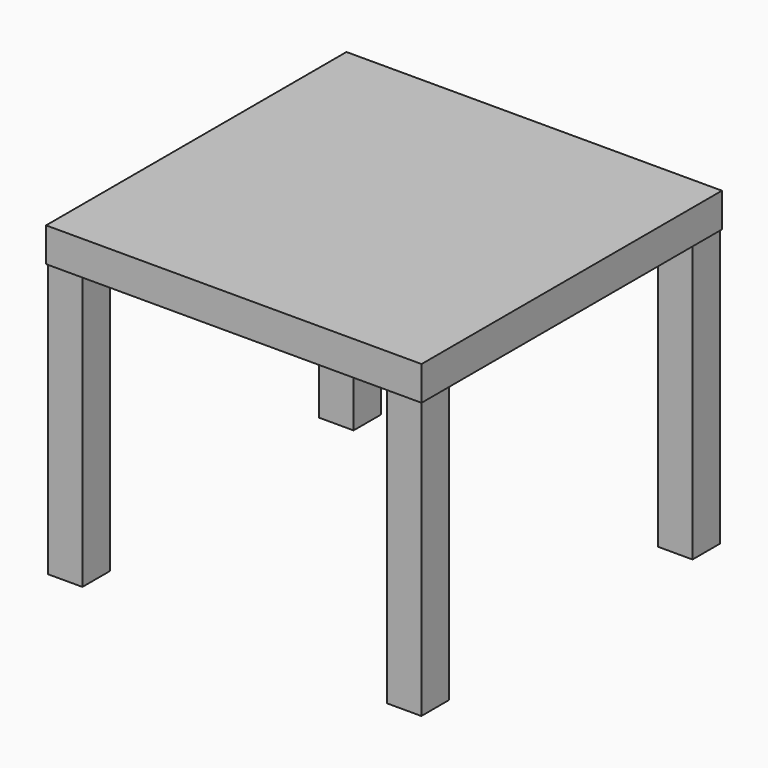
from build123d import *

# Parameters (mm, degrees)
BOX011_W     = 50.5
BOX011_H     = 50.5
BOX011_DEPTH = 405
BOX012_W     = 50.5
BOX012_H     = 50.5
BOX012_DEPTH = 405
BOX013_W     = 50.5
BOX013_H     = 50.5
BOX013_DEPTH = 405
BOX009_W     = 550
BOX009_H     = 550
BOX009_DEPTH = 50
BOX010_W     = 50.5
BOX010_H     = 50.5
BOX010_DEPTH = 405


with BuildPart() as box002:
    # Box011 → Box011 (new body)
    with BuildSketch(Plane(origin=(1.5, 498, 0), x_dir=(1, 0, 0), z_dir=(0, 0, 1))):
        with Locations((25.25, 25.25)):
            Rectangle(BOX011_W, BOX011_H)
    extrude(amount=BOX011_DEPTH)


with BuildPart() as box003:
    # Box012 → Box012 (new body)
    with BuildSketch(Plane(origin=(498, 1.5, -5), x_dir=(1, 0, 0), z_dir=(0, 0, 1))):
        with Locations((25.25, 25.25)):
            Rectangle(BOX012_W, BOX012_H)
    extrude(amount=BOX012_DEPTH)


with BuildPart() as box004:
    # Box013 → Box013 (new body)
    with BuildSketch(Plane(origin=(498, 498, -5), x_dir=(1, 0, 0), z_dir=(0, 0, 1))):
        with Locations((25.25, 25.25)):
            Rectangle(BOX013_W, BOX013_H)
    extrude(amount=BOX013_DEPTH)


with BuildPart() as box:
    # Box009 → Box009 (new body)
    with BuildSketch(Plane.XY.offset(400)):
        with Locations((275, 275)):
            Rectangle(BOX009_W, BOX009_H)
    extrude(amount=BOX009_DEPTH)


with BuildPart() as fusion:
    # Box010 → Box010 (new body)
    with BuildSketch(Plane(origin=(1.5, 1.5, 0), x_dir=(1, 0, 0), z_dir=(0, 0, 1))):
        with Locations((25.25, 25.25)):
            Rectangle(BOX010_W, BOX010_H)
    extrude(amount=BOX010_DEPTH)

    # Fusion: union Box002, Box003, Box004, Box
    add(box002.part)
    add(box003.part)
    add(box004.part)
    add(box.part)


with BuildPart() as fusion_1:
    # Fusion placement: moved
    add(fusion.part.moved(Location((0, 4058, -90))))


solid = fusion_1.part
